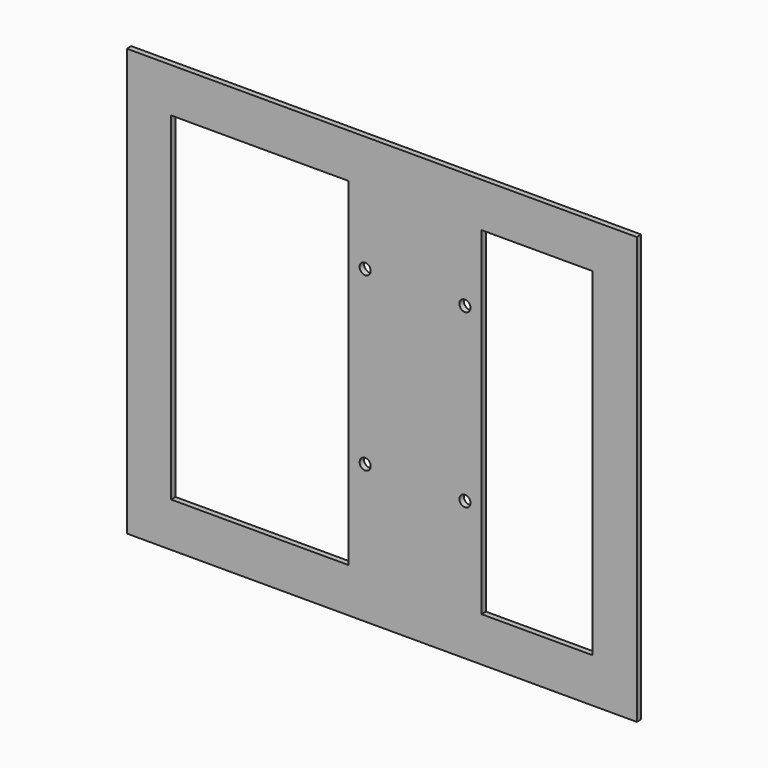
from build123d import *

# Parameters (mm, degrees)
SKETCH003_W   = 584.2
SKETCH003_H   = 488.95
SKETCH003_R   = 6.35
SKETCH003_W_2 = 127
SKETCH003_H_2 = 387.35
SKETCH003_W_3 = 203.2
PAD010_DEPTH  = 6.35


with BuildPart() as part:
    # Sketch003 → Pad010 (new body)
    with BuildSketch(Plane(origin=(0, 0, 914.4), x_dir=(1, 0, 0), z_dir=(0, -1, 0))):
        Rectangle(SKETCH003_W, SKETCH003_H)
        with Locations((-19.05, 111.125)):
            Circle(SKETCH003_R, mode=Mode.SUBTRACT)
        with Locations((95.25, 111.125)):
            Circle(SKETCH003_R, mode=Mode.SUBTRACT)
        with Locations((-19.05, -85.725)):
            Circle(SKETCH003_R, mode=Mode.SUBTRACT)
        with Locations((95.25, -85.725)):
            Circle(SKETCH003_R, mode=Mode.SUBTRACT)
        with Locations((177.8, 0)):
            Rectangle(SKETCH003_W_2, SKETCH003_H_2, mode=Mode.SUBTRACT)
        with Locations((-139.7, 0)):
            Rectangle(SKETCH003_W_3, SKETCH003_H_2, mode=Mode.SUBTRACT)
    extrude(amount=PAD010_DEPTH)


solid = part.part
